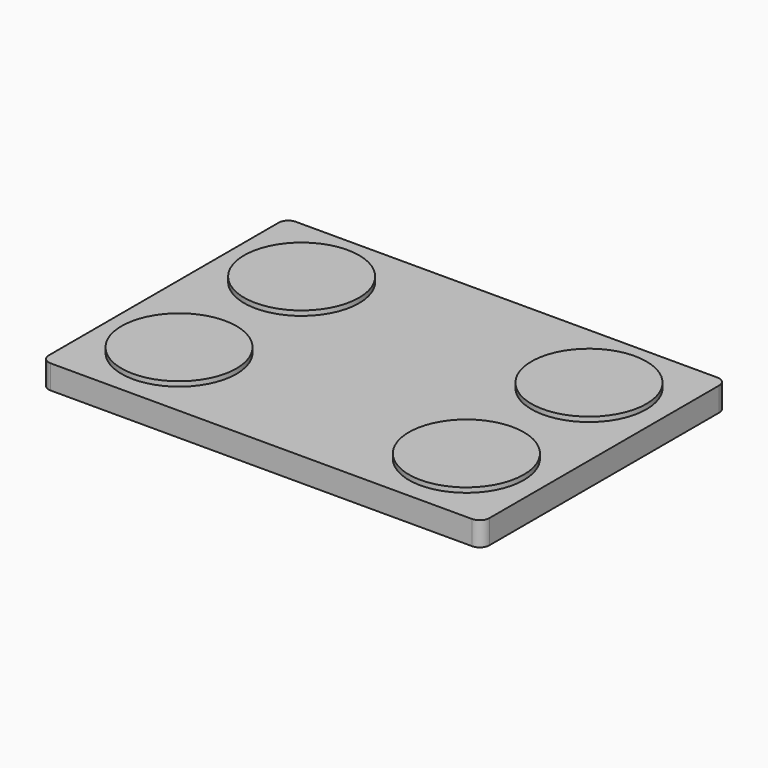
from build123d import *

# Parameters (mm, degrees)
F0_W     = 46
F0_H     = 32
F1_DEPTH = 2.5
F2_R     = 6
F3_DEPTH = 0.5
F4_R     = 1


with BuildPart() as f1:
    # F0 (on Top) → F1 (new body)
    with BuildSketch(Plane.XY):
        Rectangle(F0_W, F0_H)
    extrude(amount=F1_DEPTH)

    # F2 (on face) → F3 (join)
    with BuildSketch(Plane.XY.offset(2.5)):
        with Locations((-15, 8)):
            Circle(F2_R)
        with Locations((15, 8)):
            Circle(F2_R)
        with Locations((-15, -8)):
            Circle(F2_R)
        with Locations((15, -8)):
            Circle(F2_R)
    extrude(amount=F3_DEPTH)

    # F4
    f4_edges = [f1.edges().sort_by_distance(p)[0] for p in [
        (23, -16, 1.25),
        (-23, -16, 1.25),
        (23, 16, 1.25),
        (-23, 16, 1.25),
    ]]
    fillet(f4_edges, radius=F4_R)


solid = f1.part
